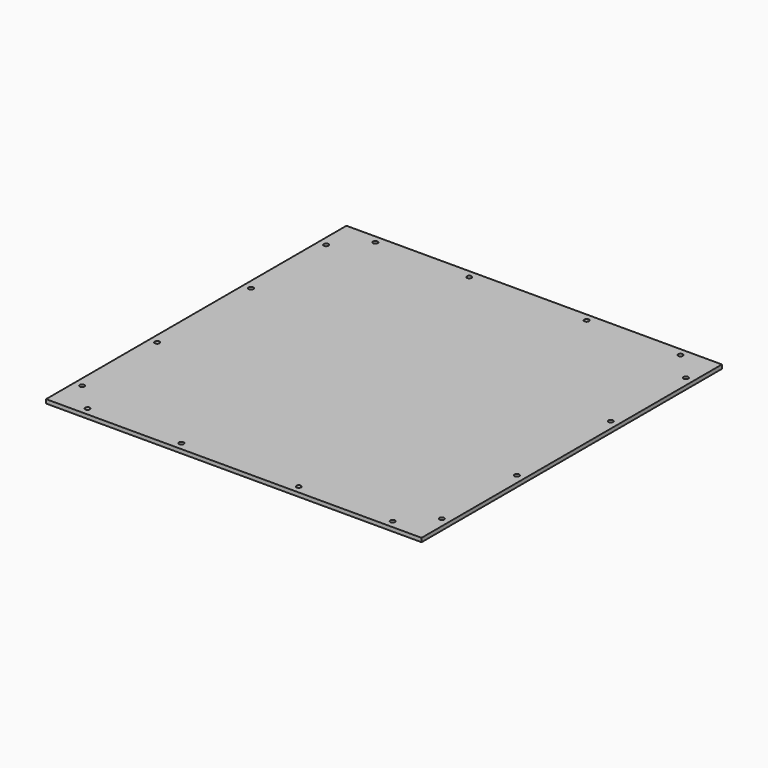
from build123d import *

# Parameters (mm, degrees)
F0_W     = 304.8
F0_H     = 304.8
F1_DEPTH = 3.175
F2_D     = 3.81


with BuildPart() as f1:
    # F0 (on Top) → F1 (new body)
    with BuildSketch(Plane.XY):
        Rectangle(F0_W, F0_H)
    extrude(amount=F1_DEPTH)

    # F2 (through all)
    with Locations(Plane(origin=(0, 0, 0), x_dir=(1, 0, 0), z_dir=(0, 0, -1))):
        with Locations((-146.05, 123.825), (-123.825, 146.05), (123.825, 146.05), (146.05, -123.825), (123.825, -146.05), (-146.05, -123.825), (-123.825, -146.05), (-146.05, 47.625), (-146.05, -47.625), (-47.625, -146.05), (47.625, -146.05), (146.05, -47.625), (146.05, 47.625), (47.625, 146.05), (-47.625, 146.05), (146.05, 123.825)):
            Hole(F2_D / 2)


solid = f1.part
